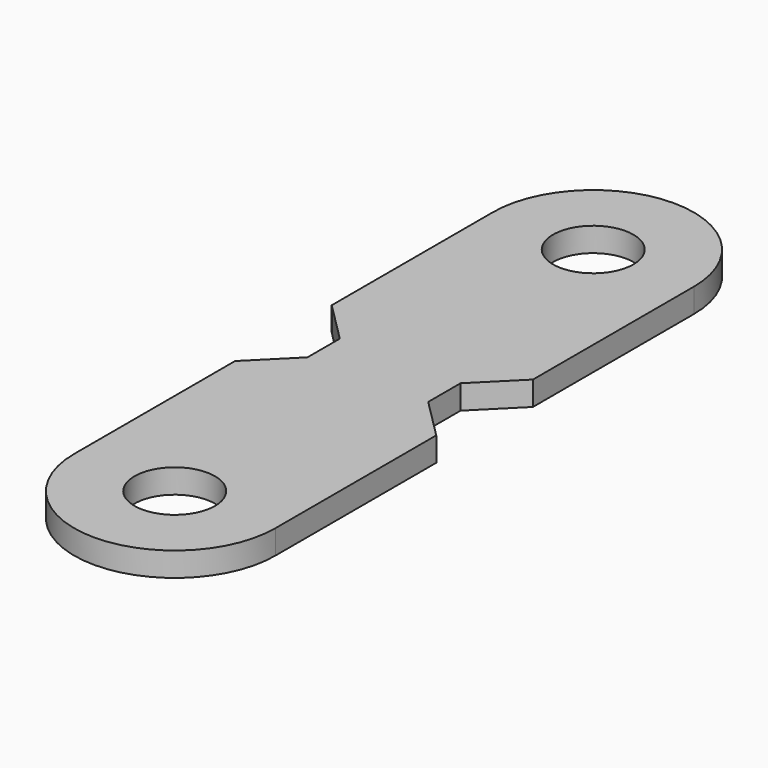
from build123d import *

# Parameters (mm, degrees)
SKETCH_R     = 0.5
PAD_DEPTH    = 0.3
CHAMFER_SIZE = 0.499


with BuildPart() as part:
    # Sketch → Pad (new body)
    with BuildSketch(Plane.XY):
        with BuildLine():
            Line((-0.75, 0), (-0.75, -1.5))
            Line((-0.75, -1.5), (-1.25, -1.5))
            Line((-1.25, -1.5), (-1.25, -4))
            ThreePointArc((-1.25, -4), (0, -5.25), (1.25, -4))
            Line((1.25, -1.5), (1.25, -4))
            Line((0.75, -1.5), (1.25, -1.5))
            Line((0.75, 0), (0.75, -1.5))
            Line((0.75, 0), (1.25, 0))
            Line((1.25, 0), (1.25, 2.5))
            ThreePointArc((1.25, 2.5), (0, 3.75), (-1.25, 2.5))
            Line((-1.25, 0), (-1.25, 2.5))
            Line((-0.75, 0), (-1.25, 0))
        make_face()
        with Locations((0, -4)):
            Circle(SKETCH_R, mode=Mode.SUBTRACT)
        with Locations((0, 2.5)):
            Circle(SKETCH_R, mode=Mode.SUBTRACT)
    extrude(amount=PAD_DEPTH)

    # Chamfer
    chamfer_edges = [part.edges().sort_by_distance(p)[0] for p in [
        (-0.75, 0, 0.15),
        (-0.75, -1.5, 0.15),
        (0.75, 0, 0.15),
        (0.75, -1.5, 0.15),
    ]]
    chamfer(chamfer_edges, length=CHAMFER_SIZE)


solid = part.part
